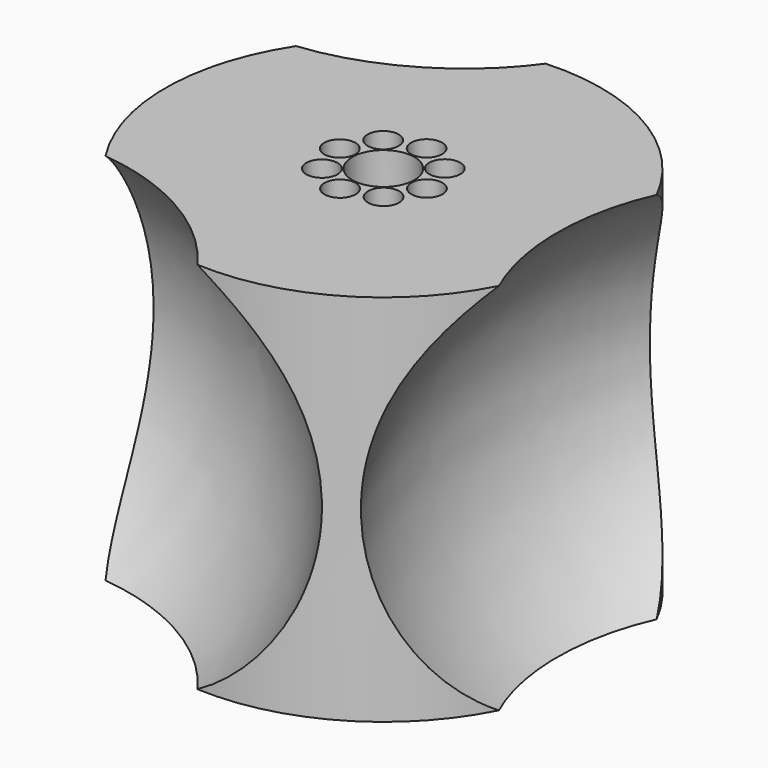
from build123d import *

# Parameters (mm, degrees)
F0_R          = 44.45
F0_R_2        = 16.51
F1_DEPTH      = 38.1
F1_DEPTH_BACK = 38.1
F4_R          = 3.175
F4_R_2        = 1.9685
F5_DEPTH      = 48.26
F6_R          = 6.35
F7_DEPTH      = 7.62
F8_R          = 3.429
F9_DEPTH      = 68.58


with BuildPart() as f1:
    # F0 (on Top) → F1 (new body, two sides)
    with BuildSketch(Plane.XY) as f1_sk:
        with Locations((-96.7949852347, 47.625)):
            Circle(F0_R)
        with Locations((-96.7949852347, 47.625)):
            Circle(F0_R_2, mode=Mode.SUBTRACT)
        with Locations((-96.7949852347, 47.625)):
            Circle(F0_R_2)
        with BuildLine():
            ThreePointArc((-88.1051627648, 52.1100670498), (-87.4115771175, 50.37826953), (-87.0594782396, 48.5462733292))
            ThreePointArc((-87.0594782396, 48.5462733292), (-85.6757800173, 47.965243489), (-85.103715896, 46.5778145407))
            ThreePointArc((-85.103715896, 46.5778145407), (-85.8323827306, 45.0488259953), (-87.478931514, 44.6517889292))
            ThreePointArc((-87.478931514, 44.6517889292), (-88.2130581693, 42.9367840447), (-89.2595036018, 41.3923956038))
            ThreePointArc((-89.2595036018, 41.3923956038), (-88.839336444, 40.7569162622), (-88.6919210429, 40.0094919292))
            ThreePointArc((-88.6919210429, 40.0094919292), (-90.1000831422, 38.1224270954), (-92.309918185, 38.9351775301))
            ThreePointArc((-92.309918185, 38.9351775301), (-94.0417157047, 38.2415918827), (-95.8737119056, 37.8894930048))
            ThreePointArc((-95.8737119056, 37.8894930048), (-98.0529677671, 35.9450498204), (-99.7681963056, 38.3089462792))
            ThreePointArc((-99.7681963056, 38.3089462792), (-101.48320119, 39.0430729345), (-103.0275896309, 40.089518367))
            ThreePointArc((-103.0275896309, 40.089518367), (-105.9434851899, 40.2555560033), (-105.4848077047, 43.1399329502))
            ThreePointArc((-105.4848077047, 43.1399329502), (-106.178393352, 44.87173047), (-106.5304922299, 46.7037266708))
            ThreePointArc((-106.5304922299, 46.7037266708), (-108.4749354144, 48.8829825323), (-106.1110389555, 50.5982110708))
            ThreePointArc((-106.1110389555, 50.5982110708), (-105.3769123002, 52.3132159553), (-104.3304668677, 53.8576043962))
            ThreePointArc((-104.3304668677, 53.8576043962), (-104.1644292314, 56.7734999551), (-101.2800522845, 56.3148224699))
            ThreePointArc((-101.2800522845, 56.3148224699), (-99.5482547647, 57.0084081173), (-97.7162585639, 57.3605069952))
            ThreePointArc((-97.7162585639, 57.3605069952), (-95.7414309138, 59.3162590358), (-93.7792997754, 57.3477693387))
            ThreePointArc((-93.7792997754, 57.3477693387), (-93.7899471678, 57.1433056087), (-93.8217741639, 56.9410537208))
            ThreePointArc((-93.8217741639, 56.9410537208), (-92.1067692795, 56.2069270655), (-90.5623808386, 55.160481633))
            ThreePointArc((-90.5623808386, 55.160481633), (-88.4202847093, 55.5757742752), (-87.210977164, 53.7595641919))
            ThreePointArc((-87.210977164, 53.7595641919), (-87.4489020941, 52.8214265806), (-88.1051627648, 52.1100670498))
        make_face(mode=Mode.SUBTRACT)
        with BuildLine():
            ThreePointArc((-87.478931514, 44.6517889292), (-89.0293967369, 46.7886116136), (-87.0594782396, 48.5462733292))
            ThreePointArc((-87.0594782396, 48.5462733292), (-87.4115771175, 50.37826953), (-88.1051627648, 52.1100670498))
            ThreePointArc((-88.1051627648, 52.1100670498), (-90.7124690483, 52.524684387), (-90.5623808386, 55.160481633))
            ThreePointArc((-90.5623808386, 55.160481633), (-92.1067692795, 56.2069270655), (-93.8217741639, 56.9410537208))
            ThreePointArc((-93.8217741639, 56.9410537208), (-95.9585968484, 55.3905884978), (-97.7162585639, 57.3605069952))
            ThreePointArc((-97.7162585639, 57.3605069952), (-99.5482547647, 57.0084081173), (-101.2800522845, 56.3148224699))
            ThreePointArc((-101.2800522845, 56.3148224699), (-101.0424845928, 55.8008459714), (-100.9610494266, 55.2405080708))
            ThreePointArc((-100.9610494266, 55.2405080708), (-102.1821250936, 53.4194234719), (-104.3304668677, 53.8576043962))
            ThreePointArc((-104.3304668677, 53.8576043962), (-105.3769123002, 52.3132159553), (-106.1110389555, 50.5982110708))
            ThreePointArc((-106.1110389555, 50.5982110708), (-104.988766028, 49.9120186247), (-104.5492545734, 48.6721854593))
            ThreePointArc((-104.5492545734, 48.6721854593), (-105.1303256251, 47.2757495806), (-106.5304922299, 46.7037266708))
            ThreePointArc((-106.5304922299, 46.7037266708), (-106.178393352, 44.87173047), (-105.4848077047, 43.1399329502))
            ThreePointArc((-105.4848077047, 43.1399329502), (-103.4723556943, 43.221010878), (-102.4419933055, 41.4904358081))
            ThreePointArc((-102.4419933055, 41.4904358081), (-102.5942832222, 40.7312433534), (-103.0275896309, 40.089518367))
            ThreePointArc((-103.0275896309, 40.089518367), (-101.48320119, 39.0430729345), (-99.7681963056, 38.3089462792))
            ThreePointArc((-99.7681963056, 38.3089462792), (-97.6377069641, 39.8600832689), (-95.8736706941, 37.9022306613))
            ThreePointArc((-95.8736706941, 37.9022306613), (-95.873680997, 37.8958617997), (-95.8737119056, 37.8894930048))
            ThreePointArc((-95.8737119056, 37.8894930048), (-94.0417157047, 38.2415918827), (-92.309918185, 38.9351775301))
            ThreePointArc((-92.309918185, 38.9351775301), (-91.8953008477, 41.5424838136), (-89.2595036018, 41.3923956038))
            ThreePointArc((-89.2595036018, 41.3923956038), (-88.2130581693, 42.9367840447), (-87.478931514, 44.6517889292))
        make_face()
    extrude(amount=F1_DEPTH)
    extrude(f1_sk.sketch, amount=-F1_DEPTH_BACK)

    # F2 (on Top) → F3 (revolve, cut)
    with BuildSketch(Plane.XY):
        with BuildLine():
            Line((-93.0453224617, -28.6843935659), (-128.9005062292, -7.9833935659))
            Line((-128.9005062292, -7.9833935659), (-175.7542126247, 19.0676064341))
            Line((-175.7542126247, 19.0676064341), (-194.8916419976, 30.1166064341))
            ThreePointArc((-194.8916419976, 30.1166064341), (-152.7765062292, -49.3378386474), (-62.9093704608, -46.0833935659))
            Line((-62.9093704608, -46.0833935659), (-93.0453224617, -28.6843935659))
        make_face()
        with BuildLine():
            Line((-164.7556899967, 82.5323935659), (-128.9005062292, 103.2333935659))
            Line((-128.9005062292, 103.2333935659), (-82.0467998336, 130.2843935659))
            Line((-82.0467998336, 130.2843935659), (-62.9093704608, 141.3333935659))
            ThreePointArc((-62.9093704608, 141.3333935659), (-152.7765062292, 144.5878386474), (-194.8916419976, 65.1333935659))
            Line((-194.8916419976, 65.1333935659), (-164.7556899967, 82.5323935659))
        make_face()
        with BuildLine():
            Line((-32.5839432458, 89.027), (-32.5839432458, 47.625))
            Line((-32.5839432458, 47.625), (-32.5839432458, -6.477))
            Line((-32.5839432458, -6.477), (-32.5839432458, -28.575))
            ThreePointArc((-32.5839432458, -28.575), (15.1680567542, 47.625), (-32.5839432458, 123.825))
            Line((-32.5839432458, 123.825), (-32.5839432458, 89.027))
        make_face()
    revolve(axis=Axis((-134.3997675432, -4.8083935659, 0), (0.8660254038, -0.5, 0)), mode=Mode.SUBTRACT)

    # F4 (on face) → F5 (cut)
    with BuildSketch(Plane.XY.offset(38.1)):
        with Locations((-102.9295494266, 55.2405080708)):
            Circle(F4_R)
        with Locations((-102.9295494266, 55.2405080708)):
            Circle(F4_R_2, mode=Mode.SUBTRACT)
        with Locations((-95.7477997754, 57.3477693387)):
            Circle(F4_R)
        with Locations((-95.7477997754, 57.3477693387)):
            Circle(F4_R_2, mode=Mode.SUBTRACT)
        with Locations((-89.179477164, 53.7595641919)):
            Circle(F4_R)
        with Locations((-89.179477164, 53.7595641919)):
            Circle(F4_R_2, mode=Mode.SUBTRACT)
        with Locations((-87.072215896, 46.5778145407)):
            Circle(F4_R)
        with Locations((-87.072215896, 46.5778145407)):
            Circle(F4_R_2, mode=Mode.SUBTRACT)
        with Locations((-90.6604210429, 40.0094919292)):
            Circle(F4_R)
        with Locations((-90.6604210429, 40.0094919292)):
            Circle(F4_R_2, mode=Mode.SUBTRACT)
        with Locations((-97.8421706941, 37.9022306613)):
            Circle(F4_R)
        with BuildLine():
            ThreePointArc((-95.8736706941, 37.9022306613), (-95.873680997, 37.8958617997), (-95.8737119056, 37.8894930048))
            ThreePointArc((-95.8737119056, 37.8894930048), (-99.8106603912, 37.9085995228), (-95.8736706941, 37.9022306613))
        make_face(mode=Mode.SUBTRACT)
        with Locations((-104.4104933055, 41.4904358081)):
            Circle(F4_R)
        with Locations((-104.4104933055, 41.4904358081)):
            Circle(F4_R_2, mode=Mode.SUBTRACT)
        with Locations((-106.5177545734, 48.6721854593)):
            Circle(F4_R)
        with Locations((-106.5177545734, 48.6721854593)):
            Circle(F4_R_2, mode=Mode.SUBTRACT)
    extrude(amount=-F5_DEPTH, mode=Mode.SUBTRACT)

    # F6 (on face) → F7 (cut)
    with BuildSketch(Plane.XY.offset(38.1)):
        with Locations((-96.7949852347, 47.625)):
            Circle(F6_R)
    extrude(amount=-F7_DEPTH, mode=Mode.SUBTRACT)

    # F8 (on face) → F9 (cut, through all)
    with BuildSketch(Plane.XY.offset(30.48)):
        with Locations((-96.7949852347, 47.625)):
            Circle(F8_R)
    extrude(amount=-F9_DEPTH, mode=Mode.SUBTRACT)

    # F2 (on Top) → F10 (revolve, cut)
    with BuildSketch(Plane.XY):
        with BuildLine():
            Line((-32.5839432458, 89.027), (-32.5839432458, 47.625))
            Line((-32.5839432458, 47.625), (-32.5839432458, -6.477))
            Line((-32.5839432458, -6.477), (-32.5839432458, -28.575))
            ThreePointArc((-32.5839432458, -28.575), (15.1680567542, 47.625), (-32.5839432458, 123.825))
            Line((-32.5839432458, 123.825), (-32.5839432458, 89.027))
        make_face()
    revolve(axis=Axis((-32.5839432458, 85.725, 0), (0, 1, 0)), mode=Mode.SUBTRACT)

    # F2 (on Top) → F11 (revolve, cut)
    with BuildSketch(Plane.XY):
        with BuildLine():
            Line((-164.7556899967, 82.5323935659), (-128.9005062292, 103.2333935659))
            Line((-128.9005062292, 103.2333935659), (-82.0467998336, 130.2843935659))
            Line((-82.0467998336, 130.2843935659), (-62.9093704608, 141.3333935659))
            ThreePointArc((-62.9093704608, 141.3333935659), (-152.7765062292, 144.5878386474), (-194.8916419976, 65.1333935659))
            Line((-194.8916419976, 65.1333935659), (-164.7556899967, 82.5323935659))
        make_face()
    revolve(axis=Axis((-123.4012449152, 106.4083935659, 0), (-0.8660254038, -0.5, 0)), mode=Mode.SUBTRACT)


solid = f1.part
